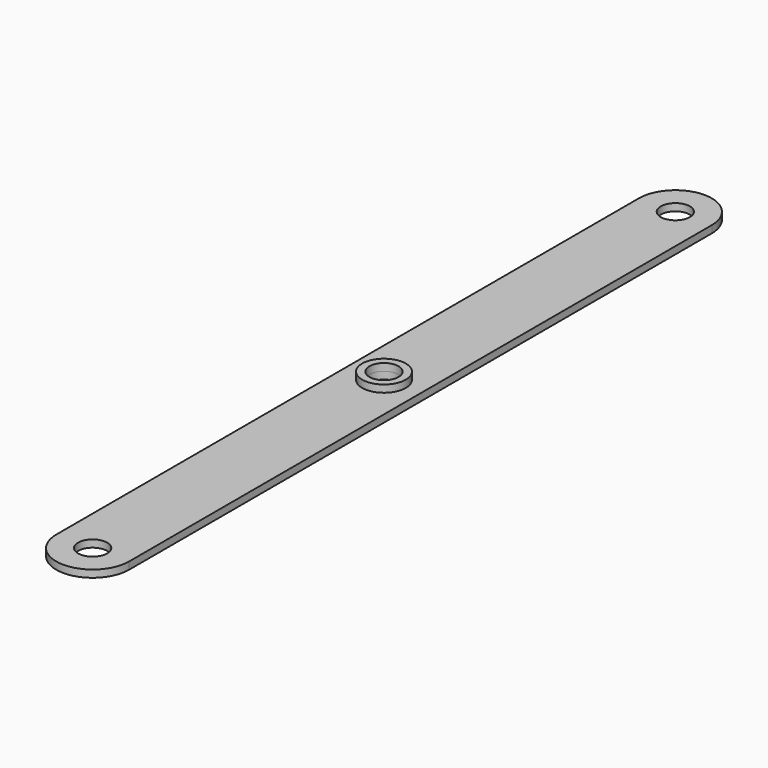
from build123d import *

# Parameters (mm, degrees)
F0_W     = 20
F0_H     = 200
F1_DEPTH = 2
F2_R     = 4
F3_DEPTH = 12.5
F4_R     = 6
F4_R_2   = 4
F5_DEPTH = 2


with BuildPart() as f1:
    # F0 (on Top) → F1 (new body)
    with BuildSketch(Plane.XY):
        Rectangle(F0_W, F0_H)
        with BuildLine():
            Line((-10, 100), (10, 100))
            ThreePointArc((10, 100), (0, 110), (-10, 100))
        make_face()
        with BuildLine():
            ThreePointArc((-10, -100), (0, -110), (10, -100))
            Line((10, -100), (-10, -100))
        make_face()
    extrude(amount=F1_DEPTH)

    # F2 (on Top) → F3 (cut, symmetric)
    with BuildSketch(Plane.XY):
        with Locations((0, 100)):
            Circle(F2_R)
        Circle(F2_R)
        with Locations((0, -100)):
            Circle(F2_R)
    extrude(amount=F3_DEPTH, both=True, mode=Mode.SUBTRACT)


with BuildPart() as f5:
    # F4 (on face) → F5 (new body)
    with BuildSketch(Plane.XY.offset(2)):
        Circle(F4_R)
        Circle(F4_R_2, mode=Mode.SUBTRACT)
    extrude(amount=F5_DEPTH)


solid = Compound([f1.part, f5.part])
